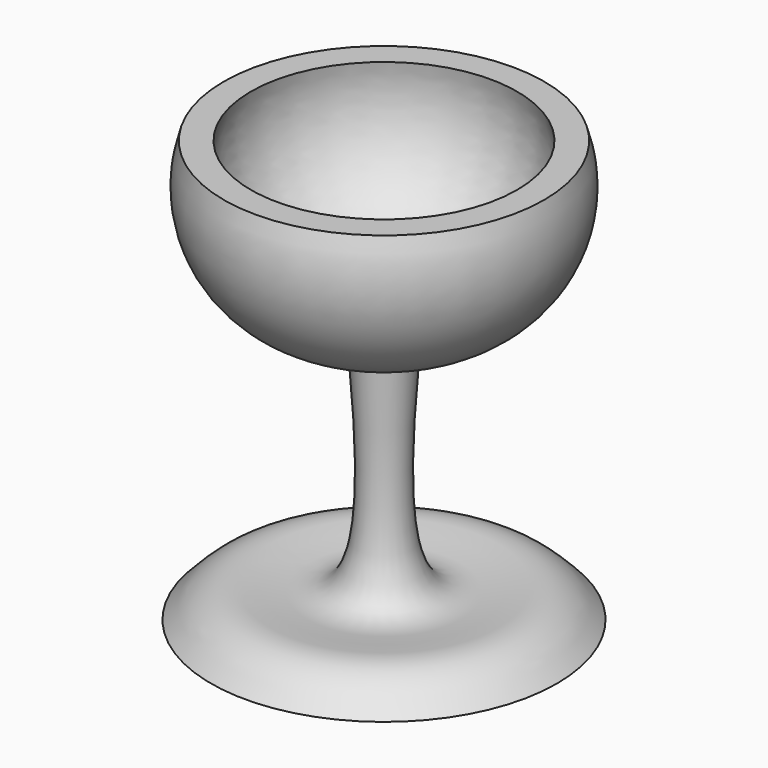
from build123d import *


with BuildPart() as f1:
    # F0 (on Front) → F1 (revolve)
    with BuildSketch(Plane.XZ):
        with BuildLine():
            Line((0, -55.6185990572), (0, 6.8358061835))
            ThreePointArc((0, 6.8358061835), (-22.716474893, 13.5338661021), (-29.0521755815, 36.3540574908))
            Line((-29.0521755815, 36.3540574908), (-34.9558256567, 36.3540574908))
            ThreePointArc((-34.9558256567, 36.3540574908), (-30.4615155869, 10.4720358127), (-6.3697258011, 0))
            add(Edge.make_bspline(
                [(-37.752289325, -55.6185990572), (-34.8528278126, -52.5568345631), (-28.5152075569, -45.8644537216), (-2.0654257109, -57.4238758287), (-4.7071962985, -22.1798865595), (-6.3697258011, 0)],
                knots=[0, 0, 0, 0, 0.2381520201, 0.5205508196, 1, 1, 1, 1], degree=3))
            Line((-37.752289325, -55.6185990572), (0, -55.6185990572))
        make_face()
    revolve(axis=Axis((0, 0, -13.2055319846), (0, 0, -1)))


solid = f1.part
